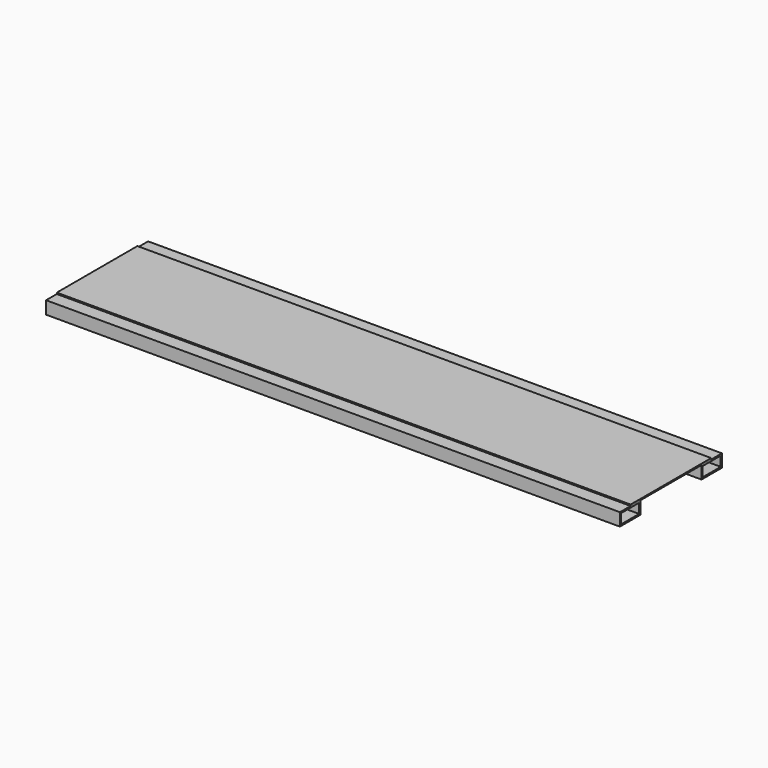
from build123d import *

# Parameters (mm, degrees)
F0_W     = 40
F0_H     = 20
F0_W_2   = 35.4
F0_H_2   = 15.4
F1_DEPTH = 900
F2_W     = 158
F2_H     = 2
F3_DEPTH = 900


with BuildPart() as f1:
    # F0 (on Right) → F1 (new body)
    with BuildSketch(Plane.YZ):
        Rectangle(F0_W, F0_H)
        Rectangle(F0_W_2, F0_H_2, mode=Mode.SUBTRACT)
        with Locations((160, 0)):
            Rectangle(F0_W, F0_H)
        with Locations((160, 0)):
            Rectangle(F0_W_2, F0_H_2, mode=Mode.SUBTRACT)
    extrude(amount=-F1_DEPTH)


with BuildPart() as f3:
    # F2 (on Right) → F3 (new body)
    with BuildSketch(Plane.YZ):
        with Locations((80, 11)):
            Rectangle(F2_W, F2_H)
    extrude(amount=-F3_DEPTH)


solid = Compound([f1.part, f3.part])
